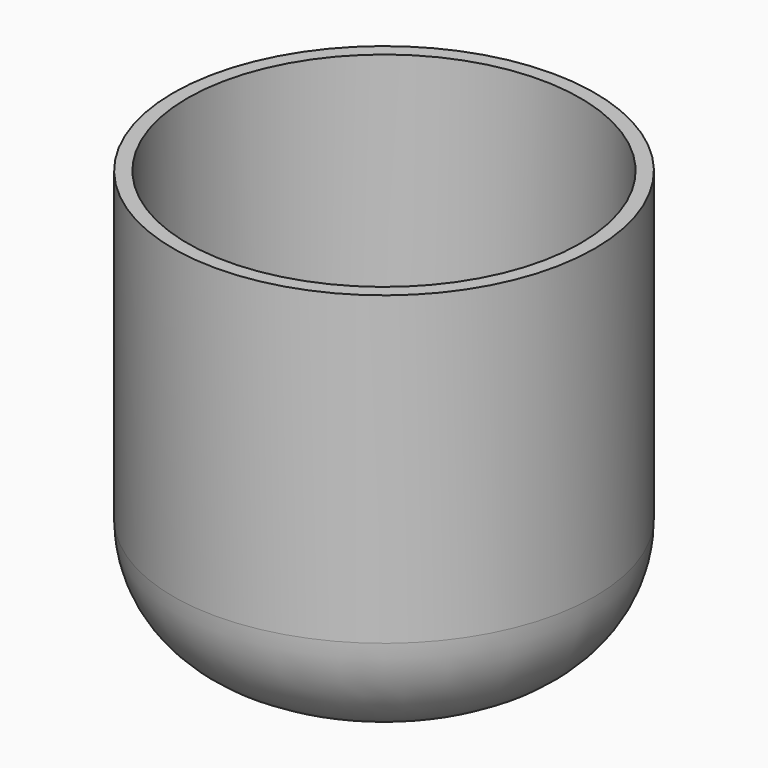
from build123d import *

# Parameters (mm, degrees)
F0_R     = 37.572403
F1_DEPTH = 74.93
F2_R     = 20.32
F3_T     = -2.54


with BuildPart() as f1:
    # F0 (on Top) → F1 (new body)
    with BuildSketch(Plane.XY):
        with Locations((-13.780282, 12.514745)):
            Circle(F0_R)
    extrude(amount=F1_DEPTH)

    # F2
    f2_edges = [f1.edges().sort_by_distance(p)[0] for p in [
        (-51.352685, 12.514745, 0),
    ]]
    fillet(f2_edges, radius=F2_R)

    # F3
    f3_openings = [f1.faces().sort_by_distance(p)[0] for p in [
        (-13.780282, 12.514745, 74.93),
    ]]
    offset(amount=F3_T, openings=f3_openings)


solid = f1.part
